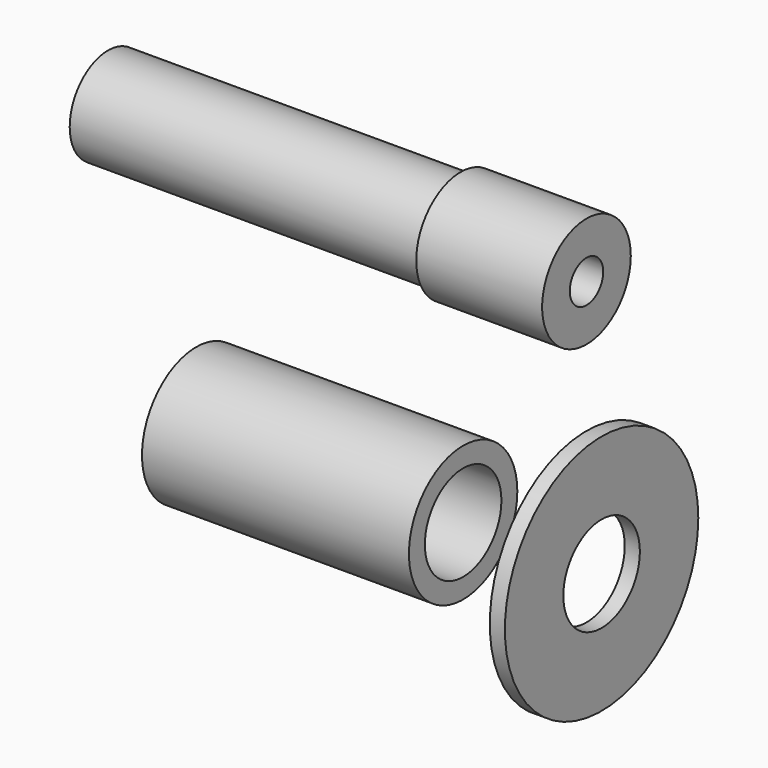
from build123d import *

# Parameters (mm, degrees)
F0_R      = 24
F0_R_2    = 9.5
F1_DEPTH  = 3
F4_R      = 13.45
F4_R_2    = 9.5
F5_DEPTH  = 53
F6_R      = 11
F7_DEPTH  = 25
F8_R      = 9.5
F9_DEPTH  = 70
F10_R     = 4.15
F11_DEPTH = 44


with BuildPart() as f1:
    # F0 (on Right) → F1 (new body)
    with BuildSketch(Plane.YZ):
        Circle(F0_R)
        Circle(F0_R_2, mode=Mode.SUBTRACT)
    extrude(amount=F1_DEPTH)


with BuildPart() as f5:
    # F4 (on plane+point) → F5 (new body)
    with BuildSketch(Plane.YZ.offset(-77.490002)):
        Circle(F4_R)
        Circle(F4_R_2, mode=Mode.SUBTRACT)
    extrude(amount=F5_DEPTH)


with BuildPart() as f7:
    # F6 (on Right) → F7 (new body)
    with BuildSketch(Plane.YZ):
        with Locations((0, 50.097644)):
            Circle(F6_R)
    extrude(amount=-F7_DEPTH)

    # F8 (on face) → F9 (join)
    with BuildSketch(Plane(origin=(-25, 0, 0), x_dir=(0, -1, 0), z_dir=(-1, 0, 0))):
        with Locations((0, 50.097644)):
            Circle(F8_R)
    extrude(amount=F9_DEPTH)

    # F10 (on face) → F11 (cut)
    with BuildSketch(Plane.YZ):
        with Locations((0, 50.097644)):
            Circle(F10_R)
    extrude(amount=-F11_DEPTH, mode=Mode.SUBTRACT)


solid = Compound([f1.part, f5.part, f7.part])
